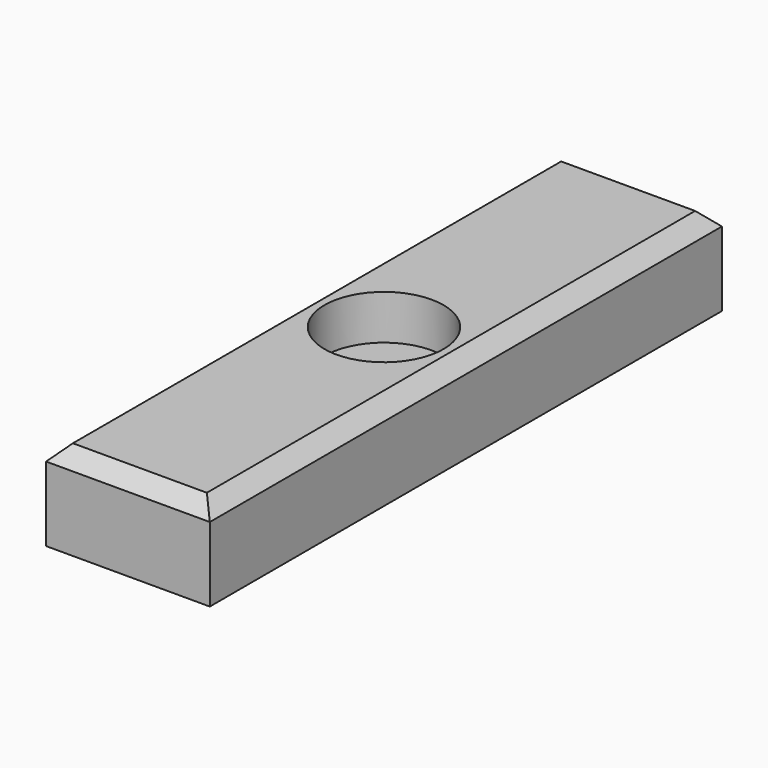
from build123d import *

# Parameters (mm, degrees)
F0_W           = 34.925
F0_H           = 136.525
F1_DEPTH       = 19.05
F2_SIZE2       = 3.175
F2_SIZE        = 3.175
F4_D           = 7.9375
F4_CBORE_D     = 25.4
F4_CBORE_DEPTH = 9.525


with BuildPart() as f1:
    # F0 (on Top) → F1 (new body)
    with BuildSketch(Plane.XY):
        Rectangle(F0_W, F0_H)
    extrude(amount=-F1_DEPTH)

    # F2
    f2_edges = [f1.edges().sort_by_distance(p)[0] for p in [
        (0, 68.2625, 0),
        (-17.4625, 0, 0),
        (0, -68.2625, 0),
        (17.4625, 0, 0),
    ]]
    chamfer(f2_edges, length=F2_SIZE, length2=F2_SIZE2)

    # F4 (through all)
    with Locations(Plane.XY):
        with Locations((0, 0)):
            CounterBoreHole(F4_D / 2, F4_CBORE_D / 2, F4_CBORE_DEPTH)


solid = f1.part
